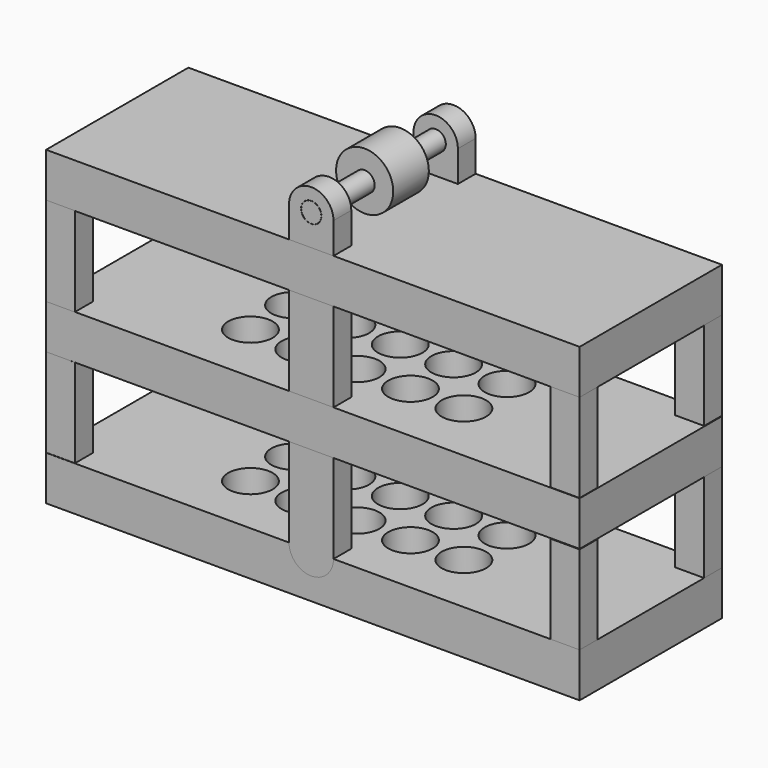
from build123d import *

# Parameters (mm, degrees)
F0_W           = 152.4
F0_H           = 12.7
F1_DEPTH       = 50.8
F3_W           = 8.255
F3_H           = 25.330644
F3_H_2         = 25.251692
F2_W           = 8.255
F2_H           = 25.33684
F2_H_2         = 25.495917
F4_DEPTH       = 6.35
F5_W           = 8.255
F5_H           = 25.321536
F5_H_2         = 25.42689
F6_W           = 8.255
F6_H           = 25.423634
F7_DEPTH       = 6.35
F9_R           = 2.906221
F9_W           = 12.7
F9_H           = 25.4
F10_DEPTH      = 6.35
F11_W          = 12.7
F11_H          = 25.4
F12_W          = 12.7
F12_H          = 25.4
F13_R          = 2.744899
F14_DEPTH      = 6.35
F15_R          = 2.86954
F16_DEPTH      = 50.8
F18_R          = 8.166751
F19_DEPTH      = 6.35
F19_DEPTH_BACK = 6.35
F20_R          = 6.35
F21_DEPTH      = 52.832


with BuildPart() as f1:
    # F0 (on Front) → F1 (new body)
    with BuildSketch(Plane.XZ):
        with Locations((76.2, 82.55)):
            Rectangle(F0_W, F0_H)
        with Locations((76.2, 44.45)):
            Rectangle(F0_W, F0_H)
        with Locations((76.2, 6.35)):
            Rectangle(F0_W, F0_H)
    extrude(amount=-F1_DEPTH)

    # F20 (on face) → F21 (cut)
    with BuildSketch(Plane(origin=(0, 0, 0), x_dir=(1, 0, 0), z_dir=(0, 0, -1))):
        with Locations((59.38933, -17.78)):
            Circle(F20_R)
        with Locations((74.62933, -17.78)):
            Circle(F20_R)
        with Locations((89.86933, -17.78)):
            Circle(F20_R)
        with Locations((44.14933, -17.78)):
            Circle(F20_R)
        with Locations((44.268783, -33.02)):
            Circle(F20_R)
        with Locations((105.10933, -17.78)):
            Circle(F20_R)
        with Locations((74.748783, -33.02)):
            Circle(F20_R)
        with Locations((89.988783, -33.02)):
            Circle(F20_R)
        with Locations((105.228783, -33.02)):
            Circle(F20_R)
        with Locations((59.508783, -33.02)):
            Circle(F20_R)
    extrude(amount=-F21_DEPTH, mode=Mode.SUBTRACT)


with BuildPart() as f4:
    # F3 (on face) + F2 (on Front) → F4 (new body)
    with BuildSketch(Plane.XZ):
        with Locations((148.2725, 63.548664)):
            Rectangle(F3_W, F3_H)
        with Locations((148.2725, 25.325846)):
            Rectangle(F3_W, F3_H_2)
    with BuildSketch(Plane.XZ):
        with Locations((4.1275, 25.428958)):
            Rectangle(F2_W, F2_H)
        with Locations((4.1275, 63.495166)):
            Rectangle(F2_W, F2_H_2)
    extrude(amount=-F4_DEPTH)


with BuildPart() as f7:
    # F5 (on face) + F6 (on face) → F7 (new body)
    with BuildSketch(Plane(origin=(0, 50.8, 0), x_dir=(-1, 0, 0), z_dir=(0, 1, 0))):
        with Locations((-148.2725, 63.603941)):
            Rectangle(F5_W, F5_H)
        with Locations((-148.2725, 25.413445)):
            Rectangle(F5_W, F5_H_2)
        with Locations((-4.1275, 25.413445)):
            Rectangle(F5_W, F5_H_2)
    with BuildSketch(Plane(origin=(0, 50.8, 0), x_dir=(-1, 0, 0), z_dir=(0, 1, 0))):
        with Locations((-4.1275, 63.511817)):
            Rectangle(F6_W, F6_H)
    extrude(amount=-F7_DEPTH)


with BuildPart() as f10:
    # F9 (on face) → F10 (new body)
    with BuildSketch(Plane.XZ):
        with BuildLine():
            Line((69.396986, 97.79), (69.396986, 88.9))
            Line((69.396986, 88.9), (82.096986, 88.9))
            Line((82.096986, 88.9), (82.096986, 97.79))
            ThreePointArc((82.096986, 97.79), (75.746986, 104.14), (69.396986, 97.79))
        make_face()
        with Locations((75.746986, 97.79)):
            Circle(F9_R, mode=Mode.SUBTRACT)
        with Locations((75.746986, 63.5)):
            Rectangle(F9_W, F9_H)
        with Locations((75.746986, 25.4)):
            Rectangle(F9_W, F9_H)
        with BuildLine():
            Line((82.096986, 12.7), (69.396986, 12.7))
            ThreePointArc((69.396986, 12.7), (75.746986, 6.35), (82.096986, 12.7))
        make_face()
    extrude(amount=-F10_DEPTH)


with BuildPart() as f14:
    # F11 (on face) + F12 (on face) + F13 (on face) → F14 (new body)
    with BuildSketch(Plane(origin=(0, 50.8, 0), x_dir=(-1, 0, 0), z_dir=(0, 1, 0))):
        with Locations((-75.683478, 25.4)):
            Rectangle(F11_W, F11_H)
    with BuildSketch(Plane(origin=(0, 50.8, 0), x_dir=(-1, 0, 0), z_dir=(0, 1, 0))):
        with Locations((-75.830455, 63.5)):
            Rectangle(F12_W, F12_H)
    with BuildSketch(Plane(origin=(0, 50.8, 0), x_dir=(-1, 0, 0), z_dir=(0, 1, 0))):
        with BuildLine():
            Line((-82.057677, 97.79), (-82.057677, 88.9))
            Line((-82.057677, 88.9), (-69.377542, 88.9))
            Line((-69.377542, 88.9), (-69.377542, 97.79))
            ThreePointArc((-69.377542, 97.79), (-75.717609, 104.130068), (-82.057677, 97.79))
        make_face()
        with Locations((-75.717609, 97.79)):
            Circle(F13_R, mode=Mode.SUBTRACT)
    extrude(amount=-F14_DEPTH)


with BuildPart() as f16:
    # F15 (on face) → F16 (new body)
    with BuildSketch(Plane.XZ):
        with Locations((75.746986, 97.79)):
            Circle(F15_R)
    extrude(amount=-F16_DEPTH)


with BuildPart() as f19:
    # F18 (on offset) → F19 (new body, two sides)
    with BuildSketch(Plane.XZ.offset(-25.4)) as f19_sk:
        with Locations((75.755097, 97.938247)):
            Circle(F18_R)
    extrude(amount=F19_DEPTH)
    extrude(f19_sk.sketch, amount=-F19_DEPTH_BACK)


solid = Compound([f1.part, f4.part, f7.part, f10.part, f14.part, f16.part, f19.part])
